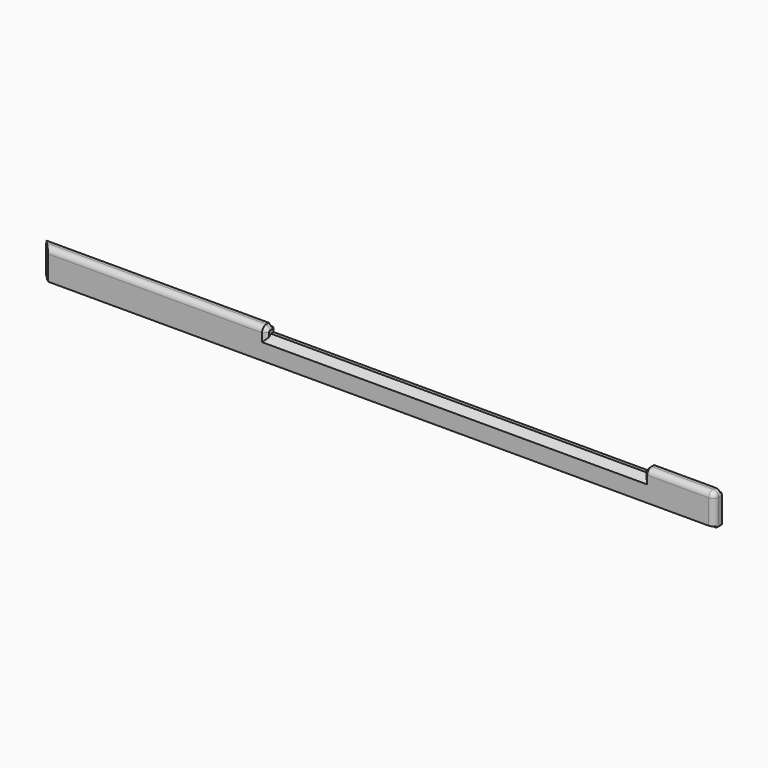
from build123d import *

# Parameters (mm, degrees)
F1_DEPTH = 25
F2_W     = 16.846502
F2_H     = 10.444245
F2_W_2   = 5.885671
F2_H_2   = 9.758566
F3_DEPTH = 1737.001
F5_DEPTH = 80.001
F6_R     = 14
F7_R     = 14
F8_SIZE  = 16
F9_SIZE  = 10


with BuildPart() as f1:
    # F0 (on Front) → F1 (new body)
    with BuildSketch(Plane.XZ):
        Polygon((0, 339.741668), (0, 259.741668), (1737, 259.741668), (1737, 339.741668), (1555, 339.741668), (1555, 320.741668), (585, 320.741668), (585, 339.741668), align=None)
    extrude(amount=F1_DEPTH)

    # F2 (on face) → F3 (cut, through all)
    with BuildSketch(Plane.YZ.offset(1737)):
        with Locations((-25.923251, 257.519545)):
            Rectangle(F2_W, F2_H)
        with Locations((-0.057165, 337.120951)):
            Rectangle(F2_W_2, F2_H_2)
    extrude(amount=-F3_DEPTH, mode=Mode.SUBTRACT)

    # F4 (on face) → F5 (cut, through all)
    with BuildSketch(Plane.XY.offset(339.741668)):
        Polygon((29.025003, -29.025003), (0, 0), (-6.033434, 0), (-6.033434, -29.025003), align=None)
    extrude(amount=-F5_DEPTH, mode=Mode.SUBTRACT)

    # F6
    f6_edges = [f1.edges().sort_by_distance(p)[0] for p in [
        (305, -25, 339.741668),
        (1646, -25, 339.741668),
    ]]
    fillet(f6_edges, radius=F6_R)

    # F7
    f7_edges = [f1.edges().sort_by_distance(p)[0] for p in [
        (1737, -25, 294.241668),
    ]]
    fillet(f7_edges, radius=F7_R)

    # F8
    f8_edges = [f1.edges().sort_by_distance(p)[0] for p in [
        (1070, -25, 320.741668),
    ]]
    chamfer(f8_edges, length=F8_SIZE)

    # F9
    f9_edges = [f1.edges().sort_by_distance(p)[0] for p in [
        (585, -25, 323.241668),
        (1555, -25, 323.241668),
    ]]
    chamfer(f9_edges, length=F9_SIZE)


solid = f1.part
